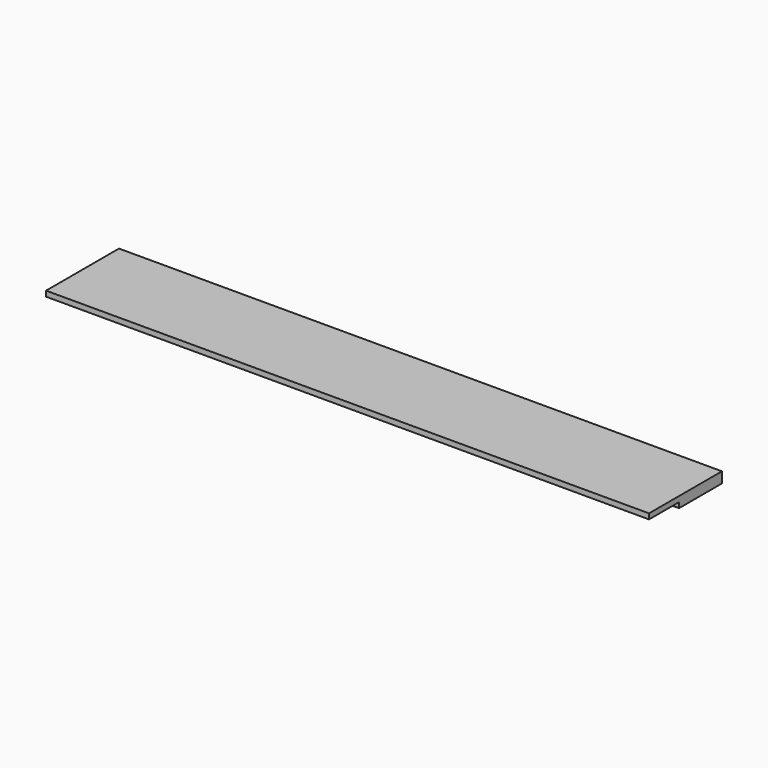
from build123d import *

# Parameters (mm, degrees)
F0_W     = 225
F0_H     = 20
F1_DEPTH = 2
F2_W     = 225
F2_H     = 14
F2_H_2   = 6
F3_DEPTH = 4


with BuildPart() as f1:
    # F0 (on Top) → F1 (new body)
    with BuildSketch(Plane.XY):
        Rectangle(F0_W, F0_H)
    extrude(amount=F1_DEPTH)

    # F2 (on face) → F3 (join)
    with BuildSketch(Plane.XY.offset(2)):
        with Locations((0, 17)):
            Rectangle(F2_W, F2_H)
        with Locations((0, 7)):
            Rectangle(F2_W, F2_H_2)
    extrude(amount=-F3_DEPTH)


solid = f1.part
